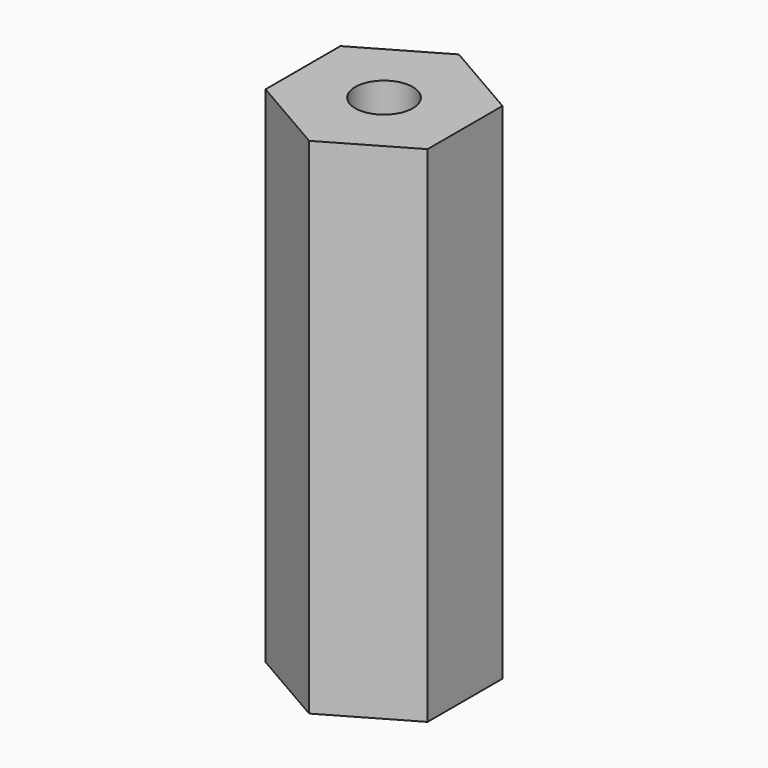
from build123d import *

# Parameters (mm, degrees)
PAD_DEPTH   = 14
SKETCH001_R = 0.8
HOLE_DEPTH  = 14.001


with BuildPart() as part:
    # Sketch → Pad (new body)
    with BuildSketch(Plane.XY):
        Polygon((-2.25, -1.299038), (0, -2.598076), (2.25, -1.299038), (2.25, 1.299038), (0, 2.598076), (-2.25, 1.299038), align=None)
    extrude(amount=PAD_DEPTH)

    # Sketch001 (on Face8 of Pad) → Hole (cut, through all)
    with BuildSketch(Plane.XY.offset(14)):
        Circle(SKETCH001_R)
    extrude(amount=-HOLE_DEPTH, mode=Mode.SUBTRACT)


solid = part.part
